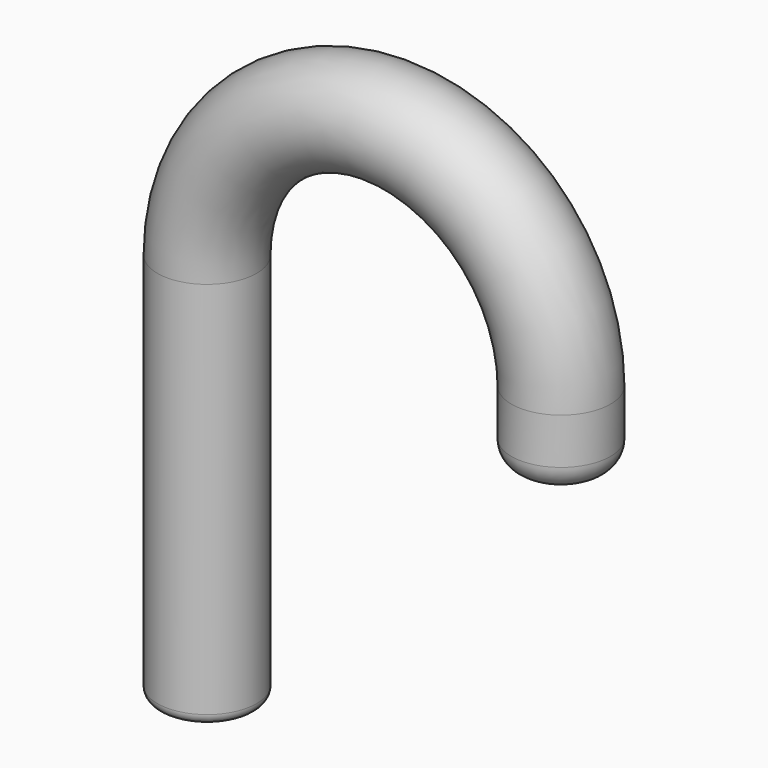
from build123d import *

# Parameters (mm, degrees)
F2_R     = 14
F3_DEPTH = 110
F5_R     = 7
F7_D     = 14.4
F7_DEPTH = 110
F7_TIP   = 4.326196457
F8_R     = 3


with BuildPart() as f3:
    # F2 (on plane+point) → F3 (new body)
    with BuildSketch(Plane.XY.offset(44.526386261)):
        with Locations((-34.2825837433, 0)):
            Circle(F2_R)
    extrude(amount=-F3_DEPTH)

    # F4: sweep along a path in F0
    with BuildLine(Plane.XZ) as f4_path:
        ThreePointArc((-34.2825837433, 44.526386261), (15.7174162567, 94.526386261), (65.7174162567, 44.526386261))
        Line((65.7174162567, 44.526386261), (65.7174162567, 24.526386261))
    # F2 (on plane+point) → F4 (sweep)
    with BuildSketch(Plane.XY.offset(44.526386261)):
        with Locations((-34.2825837433, 0)):
            Circle(F2_R)
    sweep(path=f4_path.line)

    # F5
    f5_edges = [f3.edges().sort_by_distance(p)[0] for p in [
        (79.717416, 0, 24.526386),
    ]]
    fillet(f5_edges, radius=F5_R)

    # F7
    with Locations(Plane(origin=(0, 0, -65.473613739), x_dir=(1, 0, 0), z_dir=(0, 0, -1))):
        with Locations((-34.2825837433, 0)):
            Hole(F7_D / 2, depth=F7_DEPTH)
            with Locations((0, 0, -(F7_DEPTH + F7_TIP / 2))):  # 118° drill point
                Cone(0, F7_D / 2, F7_TIP, mode=Mode.SUBTRACT)

    # F8
    f8_edges = [f3.edges().sort_by_distance(p)[0] for p in [
        (-48.282584, 0, -65.473614),
    ]]
    fillet(f8_edges, radius=F8_R)


solid = f3.part
